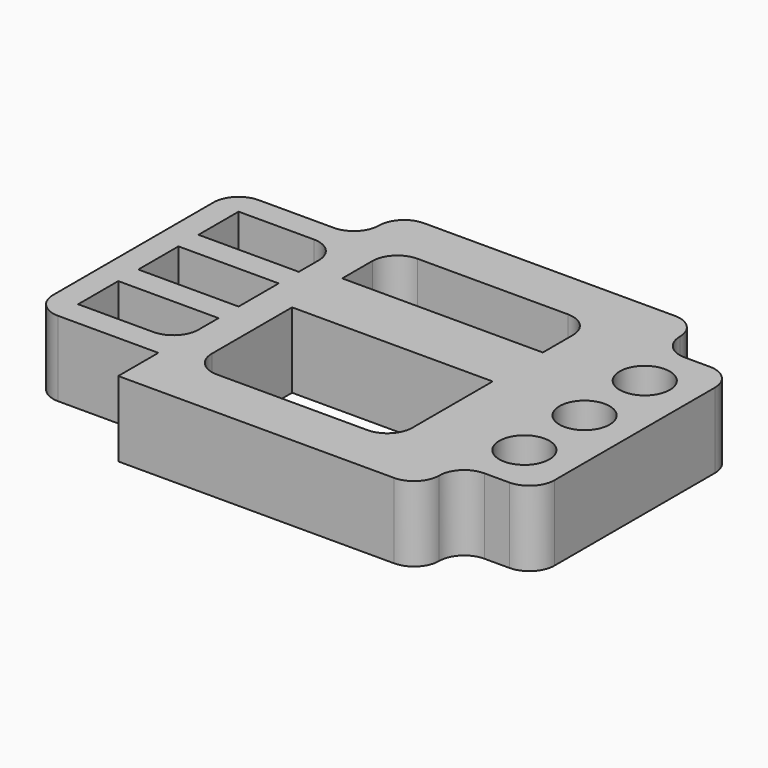
from build123d import *

# Parameters (mm, degrees)
F0_R     = 10
F0_W     = 40
F0_H     = 20
F1_DEPTH = 30


with BuildPart() as f1:
    # F0 (on Top) → F1 (new body)
    with BuildSketch(Plane.XY):
        with BuildLine():
            ThreePointArc((-40, 40), (-47.071068, 37.071068), (-50, 30))
            Line((-50, 30), (-50, -50))
            ThreePointArc((-50, -50), (-47.071068, -57.071068), (-40, -60))
            Line((-40, -60), (-11.566827, -60))
            Line((-11.566827, -60), (0, -60))
            Line((0, -60), (0, -70))
            Line((0, -70), (0, -80))
            Line((0, -80), (110, -80))
            ThreePointArc((110, -80), (117.071068, -77.071068), (120, -70))
            ThreePointArc((120, -70), (122.928932, -62.928932), (130, -60))
            Line((130, -60), (140, -60))
            ThreePointArc((140, -60), (147.071068, -57.071068), (150, -50))
            Line((150, -50), (150, 30))
            ThreePointArc((150, 30), (147.071068, 37.071068), (140, 40))
            Line((140, 40), (130, 40))
            ThreePointArc((130, 40), (122.928932, 42.928932), (120, 50))
            ThreePointArc((120, 50), (117.071068, 57.071068), (110, 60))
            Line((110, 60), (10, 60))
            ThreePointArc((10, 60), (2.928932, 57.071068), (0, 50))
            ThreePointArc((0, 50), (-2.928932, 42.928932), (-10, 40))
            Line((-10, 40), (-13.470398, 40))
            Line((-13.470398, 40), (-40, 40))
        make_face()
        with BuildLine():
            Line((-10, -50), (-40, -50))
            Line((-40, -50), (-40, -30))
            Line((-40, -30), (0, -30))
            Line((0, -30), (0, -40))
            ThreePointArc((0, -40), (-2.928932, -47.071068), (-10, -50))
        make_face(mode=Mode.SUBTRACT)
        with BuildLine():
            Line((83.340196, -60), (23.340196, -60))
            ThreePointArc((23.340196, -60), (16.269128, -57.071068), (13.340196, -50))
            Line((13.340196, -50), (13.340196, -10))
            Line((13.340196, -10), (93.340196, -10))
            Line((93.340196, -10), (93.340196, -50))
            ThreePointArc((93.340196, -50), (90.411264, -57.071068), (83.340196, -60))
        make_face(mode=Mode.SUBTRACT)
        with Locations((130, -40)):
            Circle(F0_R, mode=Mode.SUBTRACT)
        with Locations((-20, -10)):
            Rectangle(F0_W, F0_H, mode=Mode.SUBTRACT)
        with BuildLine():
            Line((-40, 10), (-40, 30))
            Line((-40, 30), (-10, 30))
            ThreePointArc((-10, 30), (-2.928932, 27.071068), (0, 20))
            Line((0, 20), (0, 10))
            Line((0, 10), (-40, 10))
        make_face(mode=Mode.SUBTRACT)
        with Locations((130, -10)):
            Circle(F0_R, mode=Mode.SUBTRACT)
        with Locations((130, 20)):
            Circle(F0_R, mode=Mode.SUBTRACT)
        with BuildLine():
            ThreePointArc((13.340196, 30), (16.269128, 37.071068), (23.340196, 40))
            Line((23.340196, 40), (83.340196, 40))
            ThreePointArc((83.340196, 40), (90.411264, 37.071068), (93.340196, 30))
            Line((93.340196, 30), (93.340196, 15))
            Line((93.340196, 15), (13.340196, 15))
            Line((13.340196, 15), (13.340196, 30))
        make_face(mode=Mode.SUBTRACT)
    extrude(amount=F1_DEPTH)


solid = f1.part
